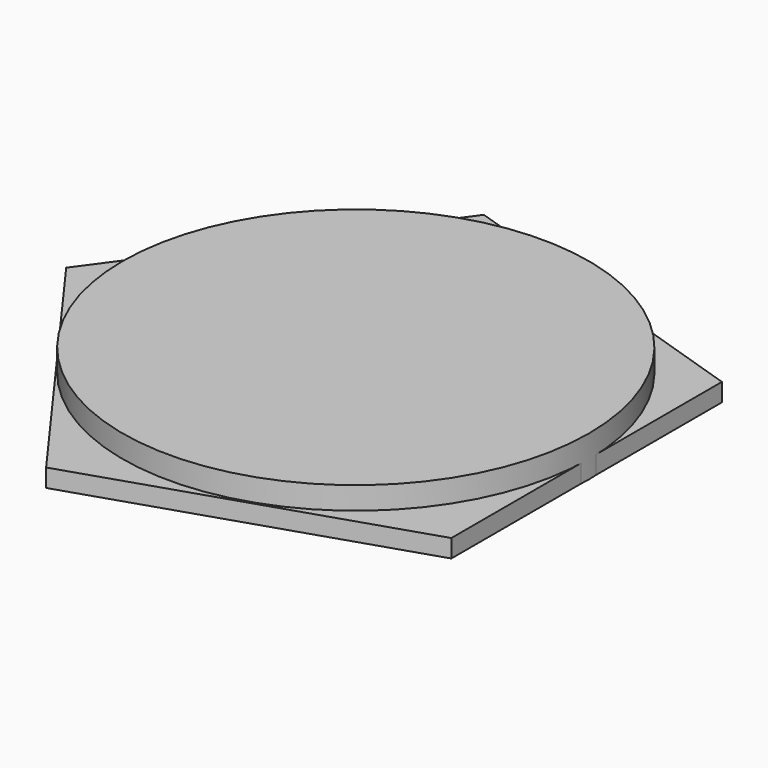
from build123d import *

# Parameters (mm, degrees)
F2_DEPTH = 3.048
F1_R     = 39.428713
F3_DEPTH = 6.858


with BuildPart() as f2:
    # F0 (on Top) → F2 (new body)
    with BuildSketch(Plane.XY):
        Polygon((18.973513, -2.289335), (18.973513, 54.893153), (-35.410265, 72.563513), (-69.021288, 26.301909), (-35.410265, -19.959695), align=None)
    extrude(amount=F2_DEPTH)


with BuildPart() as f3:
    # F1 (on Top) → F3 (new body)
    with BuildSketch(Plane.XY):
        with Locations((-20.378958, 26.703462)):
            Circle(F1_R)
    extrude(amount=F3_DEPTH)


solid = Compound([f2.part, f3.part])
